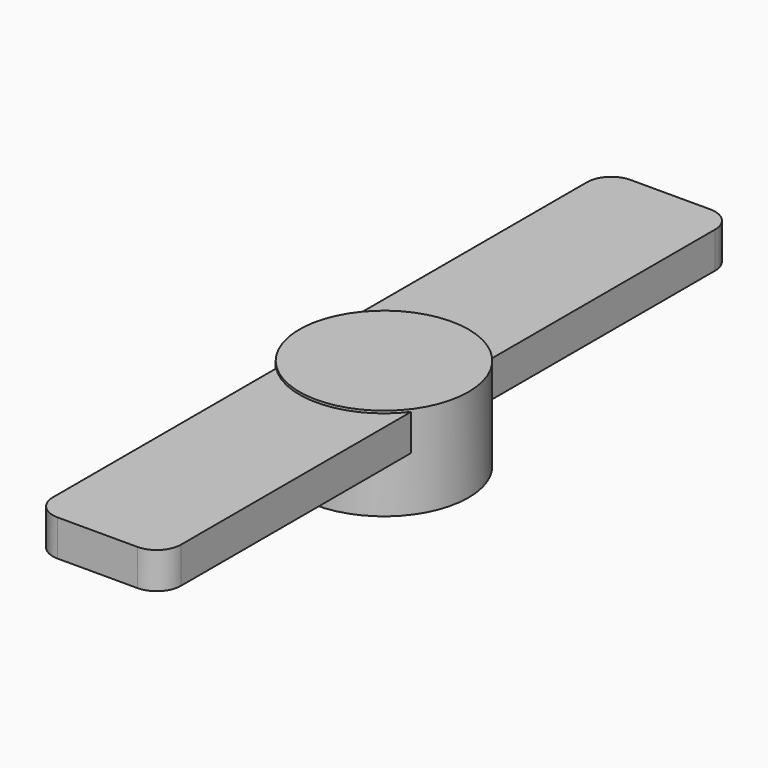
from build123d import *

# Parameters (mm, degrees)
CYLINDER008_R             = 2.25
CYLINDER008_DEPTH         = 3
BOX003_W                  = 5.3
BOX003_H                  = 13.5
BOX003_DEPTH              = 1.5
FILLET002_R               = 1
FILLET002_PLACEMENT_ANGLE = 180
BOX002_W                  = 5.3
BOX002_H                  = 13.5
BOX002_DEPTH              = 1.5
FILLET001_R               = 1
CYLINDER007_R             = 3.5
CYLINDER007_DEPTH         = 3.85


with BuildPart() as cylinder008:
    # Cylinder008 → Cylinder008 (new body)
    with BuildSketch(Plane.XY):
        Circle(CYLINDER008_R)
    extrude(amount=CYLINDER008_DEPTH)


with BuildPart() as fillet002:
    # Box003 → Box003 (new body)
    with BuildSketch(Plane(origin=(-2.5, -15, 2.25), x_dir=(1, 0, 0), z_dir=(0, 0, 1))):
        with Locations((2.65, 6.75)):
            Rectangle(BOX003_W, BOX003_H)
    extrude(amount=BOX003_DEPTH)

    # Fillet002
    fillet002_edges = [fillet002.edges().sort_by_distance(p)[0] for p in [
        (-2.5, -15, 3),
        (2.8, -15, 3),
    ]]
    fillet(fillet002_edges, radius=FILLET002_R)


with BuildPart() as fillet002_1:
    # Fillet002 placement: moved
    add(fillet002.part.rotate(Axis((0, 0, 0), (0, 0, 1)), FILLET002_PLACEMENT_ANGLE))


with BuildPart() as fillet001:
    # Box002 → Box002 (new body)
    with BuildSketch(Plane(origin=(-2.5, -15, 2.25), x_dir=(1, 0, 0), z_dir=(0, 0, 1))):
        with Locations((2.65, 6.75)):
            Rectangle(BOX002_W, BOX002_H)
    extrude(amount=BOX002_DEPTH)

    # Fillet001
    fillet001_edges = [fillet001.edges().sort_by_distance(p)[0] for p in [
        (-2.5, -15, 3),
        (2.8, -15, 3),
    ]]
    fillet(fillet001_edges, radius=FILLET001_R)


with BuildPart() as servoarmdouble:
    # Cylinder007 → Cylinder007 (new body)
    with BuildSketch(Plane.XY):
        Circle(CYLINDER007_R)
    extrude(amount=CYLINDER007_DEPTH)

    # Fusion004: union Fillet002, Fillet001
    add(fillet002_1.part)
    add(fillet001.part)

    # Cut002: cut Cylinder008
    add(cylinder008.part, mode=Mode.SUBTRACT)


solid = servoarmdouble.part
